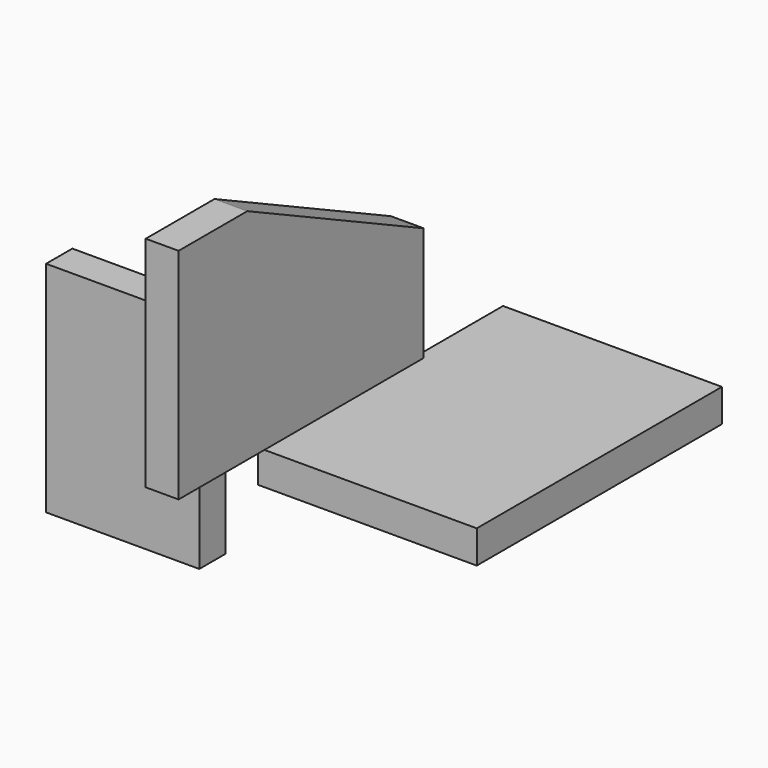
from build123d import *

# Parameters (mm, degrees)
F0_W     = 127
F0_H     = 177.8
F1_DEPTH = 19.05
F2_W     = 177.8
F2_H     = 127
F3_DEPTH = 19.05
F5_DEPTH = 127.001
F6_W     = 88.9
F6_H     = 127
F7_DEPTH = 19.05


with BuildPart() as f1:
    # F0 (on Top) → F1 (new body)
    with BuildSketch(Plane.XY):
        with Locations((63.5, 88.9)):
            Rectangle(F0_W, F0_H)
    extrude(amount=F1_DEPTH)


with BuildPart() as f3:
    # F2 (on Right) → F3 (new body)
    with BuildSketch(Plane.YZ):
        with Locations((7.578462, 95.243783)):
            Rectangle(F2_W, F2_H)
    extrude(amount=F3_DEPTH)

    # F4 (on face) → F5 (cut, through all)
    with BuildSketch(Plane(origin=(0, 0, 0), x_dir=(0, -1, 0), z_dir=(-1, 0, 0))):
        Polygon((-96.478462, 97.97103), (31.480607, 158.743783), (-96.478462, 158.743783), align=None)
    extrude(amount=-F5_DEPTH, mode=Mode.SUBTRACT)


with BuildPart() as f7:
    # F6 (on Front) → F7 (new body)
    with BuildSketch(Plane.XZ):
        with Locations((-63.18589, 22.140945)):
            Rectangle(F6_W, F6_H)
    extrude(amount=F7_DEPTH)


solid = Compound([f1.part, f3.part, f7.part])
